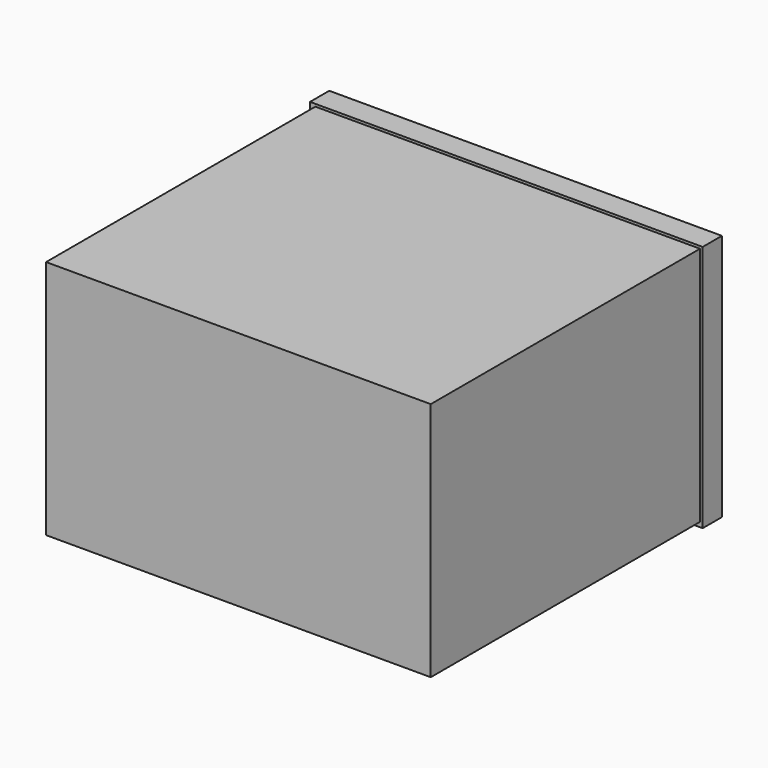
from build123d import *

# Parameters (mm, degrees)
SKETCH_W      = 800
SKETCH_H      = 500
PAD_DEPTH     = 750
SKETCH001_W   = 816.672542
SKETCH001_H   = 515.040198
PAD001_DEPTH  = 50
SKETCH002_W   = 715.631729
SKETCH002_H   = 638.12648
POCKET_DEPTH  = 20
SKETCH003_R   = 15.413666
SKETCH003_R_2 = 14.535816
PAD002_DEPTH  = 10
SKETCH004_W   = 32.008468
SKETCH004_H   = 201.831192
PAD003_DEPTH  = 10


with BuildPart() as part:
    # Sketch → Pad (new body)
    with BuildSketch(Plane.XZ):
        with Locations((400, 250)):
            Rectangle(SKETCH_W, SKETCH_H)
    extrude(amount=PAD_DEPTH)

    # Sketch001 (on Face5 of Pad) → Pad001 (join)
    with BuildSketch(Plane(origin=(0, 0, 0), x_dir=(1, 0, 0), z_dir=(0, 1, 0))):
        with Locations((397.221163, -247.606335)):
            Rectangle(SKETCH001_W, SKETCH001_H)
    extrude(amount=-PAD001_DEPTH)

    # Sketch002 (on Face6 of Pad001) → Pocket (cut)
    with BuildSketch(Plane(origin=(0, 0, 0), x_dir=(1, 0, 0), z_dir=(0, 0, -1))):
        with Locations((402.8294, 386.143486)):
            Rectangle(SKETCH002_W, SKETCH002_H)
    extrude(amount=-POCKET_DEPTH, mode=Mode.SUBTRACT)

    # Sketch003 (on Face16 of Pocket) → Pad002 (join)
    with BuildSketch(Plane(origin=(0, 0, 20), x_dir=(1, 0, 0), z_dir=(0, 0, -1))):
        with Locations((80.433578, 384.418488)):
            Circle(SKETCH003_R)
        with Locations((79.198502, 264.994965)):
            Circle(SKETCH003_R_2)
    extrude(amount=PAD002_DEPTH)

    # Sketch004 (on Face20 of Pad002) → Pad003 (join)
    with BuildSketch(Plane(origin=(0, 0, 10), x_dir=(1, 0, 0), z_dir=(0, 0, -1))):
        with Locations((80.688408, 324.975487)):
            Rectangle(SKETCH004_W, SKETCH004_H)
    extrude(amount=PAD003_DEPTH)


solid = part.part
